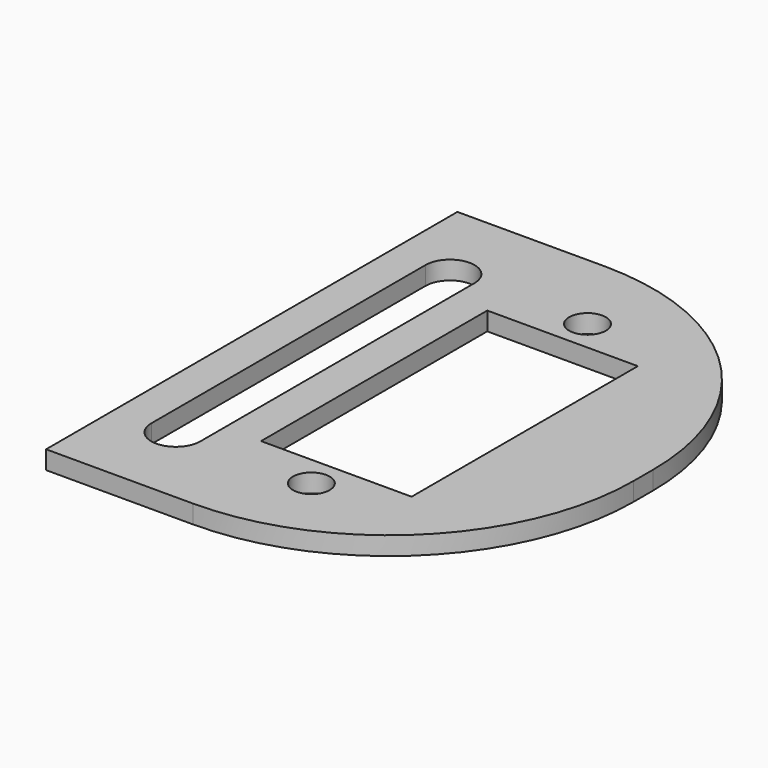
from build123d import *

# Parameters (mm, degrees)
SKETCH001_W   = 32
SKETCH001_H   = 42
SKETCH001_R   = 1.5
SKETCH001_W_2 = 12.3
SKETCH001_H_2 = 23.1
EXTRUDE_DEPTH = 1.5
FILLET_R      = 20


with BuildPart() as part:
    # Sketch001 → Extrude (new body)
    with BuildSketch(Plane.XY):
        with Locations((-0.15, 0)):
            Rectangle(SKETCH001_W, SKETCH001_H)
        with Locations((0, 14.1)):
            Circle(SKETCH001_R, mode=Mode.SUBTRACT)
        with Locations((0, -14.1)):
            Circle(SKETCH001_R, mode=Mode.SUBTRACT)
        Rectangle(SKETCH001_W_2, SKETCH001_H_2, mode=Mode.SUBTRACT)
        with BuildLine():
            ThreePointArc((-9.15, 14), (-11.15, 16), (-13.15, 14))
            Line((-13.15, 14), (-13.15, -14))
            ThreePointArc((-13.15, -14), (-11.15, -16), (-9.15, -14))
            Line((-9.15, 14), (-9.15, -14))
        make_face(mode=Mode.SUBTRACT)
    extrude(amount=EXTRUDE_DEPTH)

    # Fillet
    fillet_edges = [part.edges().sort_by_distance(p)[0] for p in [
        (15.85, 21, 0.75),
        (15.85, -21, 0.75),
    ]]
    fillet(fillet_edges, radius=FILLET_R)


solid = part.part
